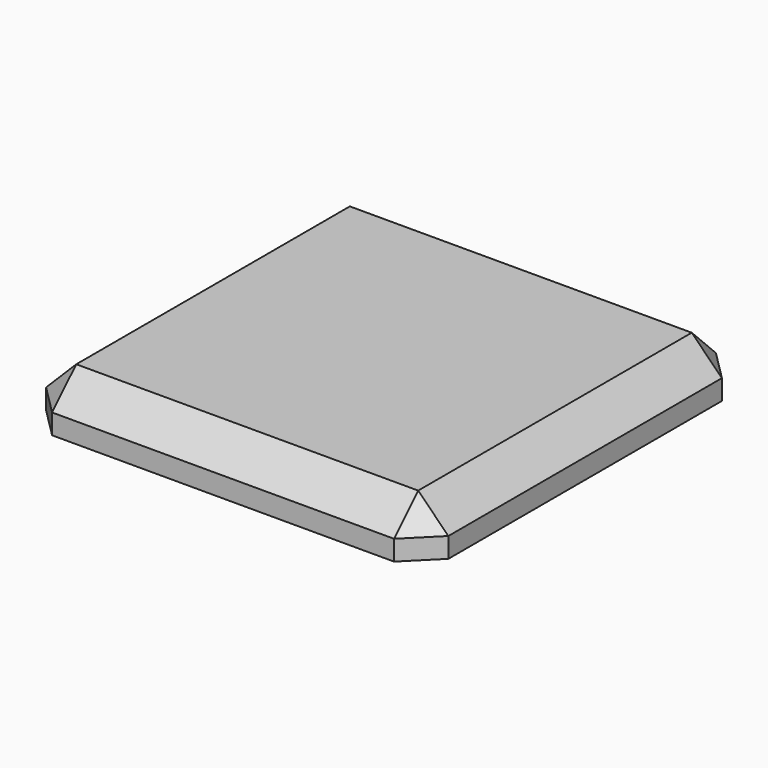
from build123d import *

# Parameters (mm, degrees)
BOX063_W                   = 20
BOX063_H                   = 20
BOX063_DEPTH               = 2.5
SKETCH051_R                = 2.4
PAD018_DEPTH               = 2
CHAMFER003_SIZE            = 1.5
CHAMFER003_PLACEMENT_ANGLE = 180


with BuildPart() as cubo046:
    # Box063 → Box063 (new body)
    with BuildSketch(Plane.XY):
        with Locations((10, 10)):
            Rectangle(BOX063_W, BOX063_H)
    extrude(amount=BOX063_DEPTH)


with BuildPart() as pad018:
    # Pad018 base: copy of Cubo046
    add(cubo046.part)

    # Sketch051 → Pad018 (new body)
    with BuildSketch(Plane.XY.offset(2.5)):
        with Locations((10, 10.425099)):
            Circle(SKETCH051_R)
    extrude(amount=PAD018_DEPTH)


with BuildPart() as chamfer003:
    # Fusion039 base: copy of Cubo046
    add(cubo046.part)

    # Fusion039: union Pad018
    add(pad018.part)

    # Chamfer003
    chamfer003_edges = [chamfer003.edges().sort_by_distance(p)[0] for p in [
        (0, 0, 1.25),
        (0, 10, 0),
        (0, 20, 1.25),
        (10, 0, 0),
        (20, 0, 1.25),
        (10, 20, 0),
        (20, 20, 1.25),
        (20, 10, 0),
    ]]
    chamfer(chamfer003_edges, length=CHAMFER003_SIZE)


with BuildPart() as chamfer003_1:
    # Chamfer003 placement: moved
    add(chamfer003.part.moved(Location((-173, -157, 225.5))).rotate(Axis((-173, -157, 225.5), (1, 0, 0)), CHAMFER003_PLACEMENT_ANGLE))


solid = chamfer003_1.part
